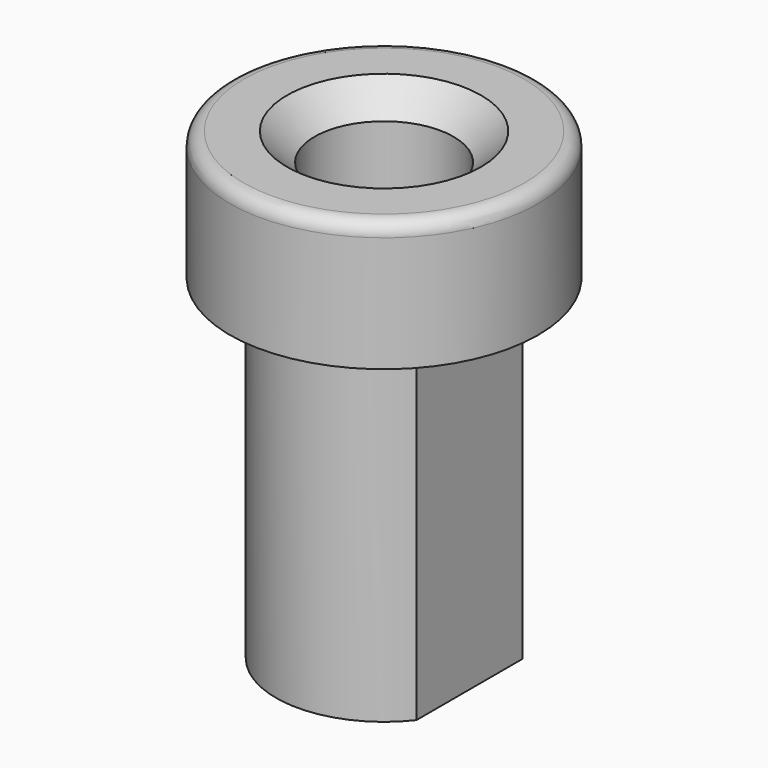
from build123d import *

# Parameters (mm, degrees)
SKETCH003_R     = 5.6
PAD001_DEPTH    = 4.7
SKETCH004_R     = 3.925
PAD002_DEPTH    = 12.15
SKETCH005_R     = 2.525
POCKET002_DEPTH = 14
FILLET_R        = 0.5
CHAMFER_SIZE    = 1
POCKET003_DEPTH = 12.15


with BuildPart() as part:
    # Sketch003 → Pad001 (new body)
    with BuildSketch(Plane.XY):
        Circle(SKETCH003_R)
    extrude(amount=PAD001_DEPTH)

    # Sketch004 (on Face2 of Pad001) → Pad002 (join)
    with BuildSketch(Plane(origin=(0, 0, 0), x_dir=(1, 0, 0), z_dir=(0, 0, -1))):
        Circle(SKETCH004_R)
    extrude(amount=PAD002_DEPTH)

    # Sketch005 (on Face3 of Pad002) → Pocket002 (cut)
    with BuildSketch(Plane.XY.offset(4.7)):
        Circle(SKETCH005_R)
    extrude(amount=-POCKET002_DEPTH, mode=Mode.SUBTRACT)

    # Fillet
    fillet_edges = [part.edges().sort_by_distance(p)[0] for p in [
        (-5.6, 0, 4.7),
    ]]
    fillet(fillet_edges, radius=FILLET_R)

    # Chamfer
    chamfer_edges = [part.edges().sort_by_distance(p)[0] for p in [
        (-2.525, 0, 4.7),
    ]]
    chamfer(chamfer_edges, length=CHAMFER_SIZE)

    # Sketch006 (on Face9 of Chamfer) → Pocket003 (cut)
    with BuildSketch(Plane(origin=(0, 0, -12.15), x_dir=(1, 0, 0), z_dir=(0, 0, -1))):
        with BuildLine():
            Line((3.1, 2.40741), (3.1, -2.40741))
            ThreePointArc((3.1, -2.40741), (3.925, 0), (3.1, 2.40741))
        make_face()
    pocket003 = extrude(amount=-POCKET003_DEPTH, mode=Mode.SUBTRACT)

    # Mirrored: Pocket003 across Sketch006 V_Axis
    add(pocket003.mirror(Plane(origin=(0, 0, -12.15), x_dir=(0, 0, -1), z_dir=(1, 0, 0))), mode=Mode.SUBTRACT)


solid = part.part
